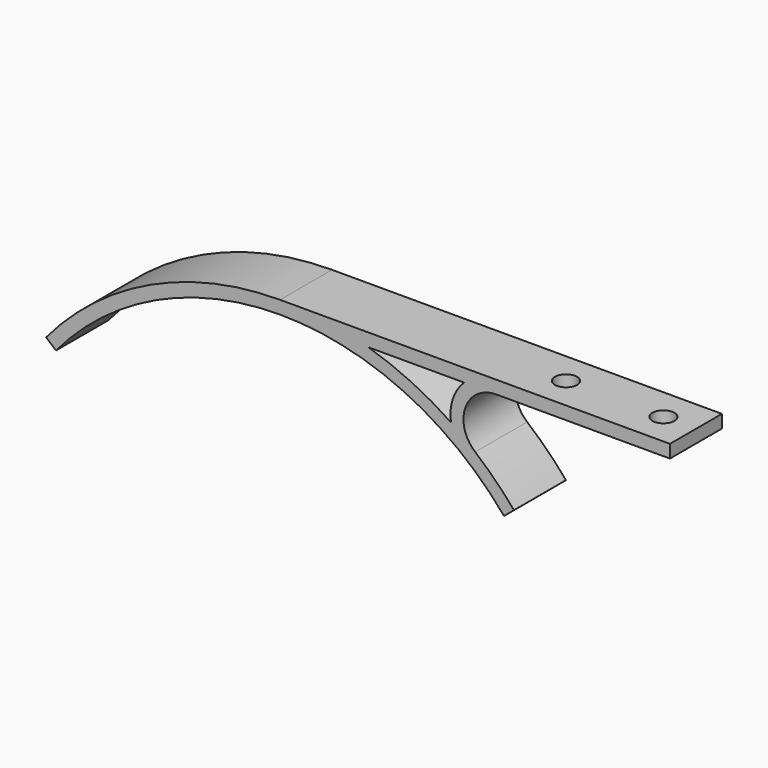
from build123d import *

# Parameters (mm, degrees)
F1_DEPTH = 12.7
F3_D     = 4.318
F3_DEPTH = 25.4
F3_TIP   = 1.2972580765


with BuildPart() as f1:
    # F0 (on Front) → F1 (new body)
    with BuildSketch(Plane.XZ):
        with BuildLine():
            ThreePointArc((0, 57.15), (24.1526336585, 51.7954900291), (43.7794399242, 36.7353118936))
            Line((43.7794399242, 36.7353118936), (45.7251928098, 38.3679924222))
            ThreePointArc((45.7251928098, 38.3679924222), (42.1021507188, 42.3119959923), (38.1401829521, 45.9153846154))
            ThreePointArc((38.1401829521, 45.9153846154), (36.2252205848, 52.95698775), (42.1976492236, 57.15))
            Line((42.1976492236, 57.15), (76.2, 57.15))
            Line((76.2, 57.15), (76.2, 59.69))
            Line((76.2, 59.69), (0, 59.69))
            ThreePointArc((0, 59.69), (-25.2260840433, 54.0975118082), (-45.7251928098, 38.3679924222))
            Line((-45.7251928098, 38.3679924222), (-43.7794399242, 36.7353118936))
            ThreePointArc((-43.7794399242, 36.7353118936), (-24.1526336585, 51.7954900291), (0, 57.15))
        make_face()
        with BuildLine():
            Line((17.2271181571, 57.15), (35.975945277, 57.15))
            ThreePointArc((35.975945277, 57.15), (33.7657449416, 53.6169292109), (33.4084844583, 49.4648285775))
            ThreePointArc((33.4084844583, 49.4648285775), (25.6077435165, 53.9178965836), (17.2271181571, 57.15))
        make_face(mode=Mode.SUBTRACT)
    extrude(amount=F1_DEPTH)

    # F3
    with Locations(Plane(origin=(0, 0, 57.15), x_dir=(1, 0, 0), z_dir=(0, 0, -1))):
        with Locations((69.85, 6.35), (50.8, 6.35)):
            Hole(F3_D / 2, depth=F3_DEPTH)
            with Locations((0, 0, -(F3_DEPTH + F3_TIP / 2))):  # 118° drill point
                Cone(0, F3_D / 2, F3_TIP, mode=Mode.SUBTRACT)


solid = f1.part
